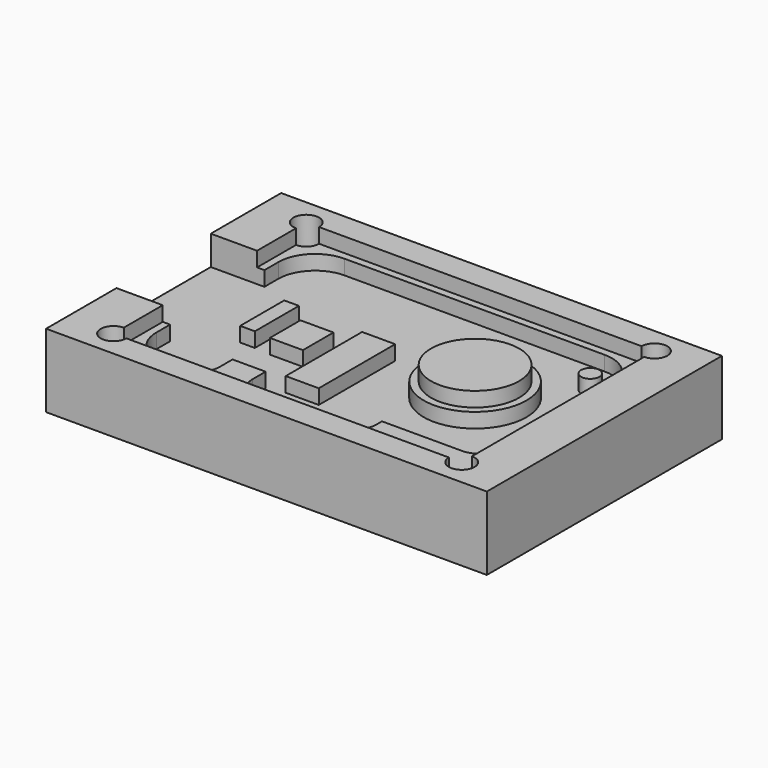
from build123d import *

# Parameters (mm, degrees)
F0_W     = 60
F0_H     = 40
F1_DEPTH = 10
F3_DEPTH = 2
F5_DEPTH = 4
F4_R     = 6
F6_DEPTH = 2
F2_W     = 6.3
F2_H     = 16.0467466712
F2_W_2   = 1.9639990747
F7_DEPTH = 4
F4_W     = 4.5
F4_H     = 5.2
F4_H_2   = 13
F4_W_2   = 2
F4_H_3   = 7.5
F4_R_2   = 7
F4_R_3   = 1.25
F8_DEPTH = 2


with BuildPart() as f1:
    # F0 (on Top) → F1 (new body)
    with BuildSketch(Plane.XY):
        with Locations((60.4293134809, -48.683847785)):
            Rectangle(F0_W, F0_H)
    extrude(amount=F1_DEPTH)

    # F2 (on face) → F3 (cut)
    with BuildSketch(Plane.XY.offset(10)):
        with BuildLine():
            Line((38.4793134809, -32.283847785), (36.7293134809, -32.283847785))
            Line((36.7293134809, -32.283847785), (36.7293134809, -34.033847785))
            ThreePointArc((36.7293134809, -34.033847785), (37.9667503479, -33.5212846521), (38.4793134809, -32.283847785))
        make_face()
        with BuildLine():
            Line((36.7293134809, -34.033847785), (36.7293134809, -32.283847785))
            Line((36.7293134809, -32.283847785), (38.4793134809, -32.283847785))
            ThreePointArc((38.4793134809, -32.283847785), (35.4918766138, -31.0464109179), (36.7293134809, -34.033847785))
        make_face()
        with BuildLine():
            ThreePointArc((38.4793134809, -65.083847785), (37.9667503479, -63.8464109179), (36.7293134809, -63.333847785))
            Line((36.7293134809, -63.333847785), (36.7293134809, -65.083847785))
            Line((36.7293134809, -65.083847785), (38.4793134809, -65.083847785))
        make_face()
        with BuildLine():
            Line((36.7293134809, -65.083847785), (36.7293134809, -63.333847785))
            ThreePointArc((36.7293134809, -63.333847785), (35.4918766138, -66.3212846521), (38.4793134809, -65.083847785))
            Line((38.4793134809, -65.083847785), (36.7293134809, -65.083847785))
        make_face()
        with BuildLine():
            ThreePointArc((85.8793134809, -65.083847785), (85.3667503479, -63.8464109179), (84.1293134809, -63.333847785))
            Line((84.1293134809, -63.333847785), (84.1293134809, -65.083847785))
            Line((84.1293134809, -65.083847785), (82.3793134809, -65.083847785))
            ThreePointArc((82.3793134809, -65.083847785), (84.1293134809, -66.833847785), (85.8793134809, -65.083847785))
        make_face()
        with BuildLine():
            Line((84.1293134809, -65.083847785), (84.1293134809, -63.333847785))
            ThreePointArc((84.1293134809, -63.333847785), (82.8918766138, -63.8464109179), (82.3793134809, -65.083847785))
            Line((82.3793134809, -65.083847785), (84.1293134809, -65.083847785))
        make_face()
        with BuildLine():
            Line((82.3793134809, -32.283847785), (38.4793134809, -32.283847785))
            ThreePointArc((38.4793134809, -32.283847785), (37.9667503479, -33.5212846521), (36.7293134809, -34.033847785))
            Line((36.7293134809, -34.033847785), (36.7293134809, -40.6604744494))
            Line((36.7293134809, -40.6604744494), (38.6933125556, -40.6604744494))
            Line((38.6933125556, -40.6604744494), (38.6933125556, -56.7072211206))
            Line((38.6933125556, -56.7072211206), (36.7293134809, -56.7072211206))
            Line((36.7293134809, -56.7072211206), (36.7293134809, -63.333847785))
            ThreePointArc((36.7293134809, -63.333847785), (37.9667503479, -63.8464109179), (38.4793134809, -65.083847785))
            Line((38.4793134809, -65.083847785), (82.3793134809, -65.083847785))
            ThreePointArc((82.3793134809, -65.083847785), (82.8918766138, -63.8464109179), (84.1293134809, -63.333847785))
            Line((84.1293134809, -63.333847785), (84.1293134809, -34.033847785))
            ThreePointArc((84.1293134809, -34.033847785), (82.8918766138, -33.5212846521), (82.3793134809, -32.283847785))
        make_face()
        with BuildLine():
            Line((84.1293134809, -32.283847785), (82.3793134809, -32.283847785))
            ThreePointArc((82.3793134809, -32.283847785), (82.8918766138, -33.5212846521), (84.1293134809, -34.033847785))
            Line((84.1293134809, -34.033847785), (84.1293134809, -32.283847785))
        make_face()
        with BuildLine():
            ThreePointArc((85.8793134809, -32.283847785), (84.1293134809, -30.533847785), (82.3793134809, -32.283847785))
            Line((82.3793134809, -32.283847785), (84.1293134809, -32.283847785))
            Line((84.1293134809, -32.283847785), (84.1293134809, -34.033847785))
            ThreePointArc((84.1293134809, -34.033847785), (85.3667503479, -33.5212846521), (85.8793134809, -32.283847785))
        make_face()
    extrude(amount=-F3_DEPTH, mode=Mode.SUBTRACT)

    # F2 (on face) → F5 (cut)
    with BuildSketch(Plane.XY.offset(10)):
        with BuildLine():
            Line((38.4793134809, -32.283847785), (36.7293134809, -32.283847785))
            Line((36.7293134809, -32.283847785), (36.7293134809, -34.033847785))
            ThreePointArc((36.7293134809, -34.033847785), (37.9667503479, -33.5212846521), (38.4793134809, -32.283847785))
        make_face()
        with BuildLine():
            Line((36.7293134809, -34.033847785), (36.7293134809, -32.283847785))
            Line((36.7293134809, -32.283847785), (38.4793134809, -32.283847785))
            ThreePointArc((38.4793134809, -32.283847785), (35.4918766138, -31.0464109179), (36.7293134809, -34.033847785))
        make_face()
        with BuildLine():
            ThreePointArc((38.4793134809, -65.083847785), (37.9667503479, -63.8464109179), (36.7293134809, -63.333847785))
            Line((36.7293134809, -63.333847785), (36.7293134809, -65.083847785))
            Line((36.7293134809, -65.083847785), (38.4793134809, -65.083847785))
        make_face()
        with BuildLine():
            Line((36.7293134809, -65.083847785), (36.7293134809, -63.333847785))
            ThreePointArc((36.7293134809, -63.333847785), (35.4918766138, -66.3212846521), (38.4793134809, -65.083847785))
            Line((38.4793134809, -65.083847785), (36.7293134809, -65.083847785))
        make_face()
        with BuildLine():
            Line((84.1293134809, -32.283847785), (82.3793134809, -32.283847785))
            ThreePointArc((82.3793134809, -32.283847785), (82.8918766138, -33.5212846521), (84.1293134809, -34.033847785))
            Line((84.1293134809, -34.033847785), (84.1293134809, -32.283847785))
        make_face()
        with BuildLine():
            ThreePointArc((85.8793134809, -32.283847785), (84.1293134809, -30.533847785), (82.3793134809, -32.283847785))
            Line((82.3793134809, -32.283847785), (84.1293134809, -32.283847785))
            Line((84.1293134809, -32.283847785), (84.1293134809, -34.033847785))
            ThreePointArc((84.1293134809, -34.033847785), (85.3667503479, -33.5212846521), (85.8793134809, -32.283847785))
        make_face()
        with BuildLine():
            Line((84.1293134809, -65.083847785), (84.1293134809, -63.333847785))
            ThreePointArc((84.1293134809, -63.333847785), (82.8918766138, -63.8464109179), (82.3793134809, -65.083847785))
            Line((82.3793134809, -65.083847785), (84.1293134809, -65.083847785))
        make_face()
        with BuildLine():
            ThreePointArc((85.8793134809, -65.083847785), (85.3667503479, -63.8464109179), (84.1293134809, -63.333847785))
            Line((84.1293134809, -63.333847785), (84.1293134809, -65.083847785))
            Line((84.1293134809, -65.083847785), (82.3793134809, -65.083847785))
            ThreePointArc((82.3793134809, -65.083847785), (84.1293134809, -66.833847785), (85.8793134809, -65.083847785))
        make_face()
    extrude(amount=-F5_DEPTH, mode=Mode.SUBTRACT)

    # F4 (on face) → F6 (join)
    with BuildSketch(Plane.XY.offset(8)):
        with Locations((71.2293134809, -46.683847785)):
            Circle(F4_R)
    extrude(amount=F6_DEPTH)

    # F2 (on face) → F7 (cut)
    with BuildSketch(Plane.XY.offset(10)):
        with Locations((33.5793134809, -48.683847785)):
            Rectangle(F2_W, F2_H)
        with Locations((37.7113130182, -48.683847785)):
            Rectangle(F2_W_2, F2_H)
    extrude(amount=-F7_DEPTH, mode=Mode.SUBTRACT)

    # F4 (on face) → F8 (cut)
    with BuildSketch(Plane.XY.offset(8)):
        with BuildLine():
            Line((78.1293134809, -33.283847785), (42.7293134809, -33.283847785))
            ThreePointArc((42.7293134809, -33.283847785), (39.1937795749, -34.7483138791), (37.7293134809, -38.283847785))
            Line((37.7293134809, -38.283847785), (37.7293134809, -40.6604744494))
            Line((37.7293134809, -40.6604744494), (38.6933125556, -40.6604744494))
            Line((38.6933125556, -40.6604744494), (38.6933125556, -56.7072211206))
            Line((38.6933125556, -56.7072211206), (37.7293134809, -56.7072211206))
            Line((37.7293134809, -56.7072211206), (37.7293134809, -59.028696239))
            ThreePointArc((37.7293134809, -59.028696239), (39.1937795749, -62.5642301449), (42.7293134809, -64.028696239))
            Line((42.7293134809, -64.028696239), (44.9293134809, -64.028696239))
            ThreePointArc((44.9293134809, -64.028696239), (47.0506338244, -63.1500165826), (47.9293134809, -61.028696239))
            Line((47.9293134809, -61.028696239), (47.9293134809, -58.828696239))
            Line((47.9293134809, -58.828696239), (52.4293134809, -58.828696239))
            Line((52.4293134809, -58.828696239), (52.4293134809, -61.028696239))
            ThreePointArc((52.4293134809, -61.028696239), (53.3079931373, -63.1500165826), (55.4293134809, -64.028696239))
            Line((55.4293134809, -64.028696239), (66.2293134809, -64.028696239))
            ThreePointArc((66.2293134809, -64.028696239), (68.3506338244, -63.1500165826), (69.2293134809, -61.028696239))
            Line((69.2293134809, -61.028696239), (69.2293134809, -60.028696239))
            Line((69.2293134809, -60.028696239), (80.1293134809, -60.028696239))
            ThreePointArc((80.1293134809, -60.028696239), (82.2506338244, -59.1500165826), (83.1293134809, -57.028696239))
            Line((83.1293134809, -57.028696239), (83.1293134809, -38.283847785))
            ThreePointArc((83.1293134809, -38.283847785), (81.6648473868, -34.7483138791), (78.1293134809, -33.283847785))
        make_face()
        with Locations((50.1793134809, -49.883847785)):
            Rectangle(F4_W, F4_H, mode=Mode.SUBTRACT)
        with Locations((56.9793134809, -51.783847785)):
            Rectangle(F4_W, F4_H_2, mode=Mode.SUBTRACT)
        with Locations((44.7293134809, -48.533847785)):
            Rectangle(F4_W_2, F4_H_3, mode=Mode.SUBTRACT)
        with Locations((71.2293134809, -46.683847785)):
            Circle(F4_R_2, mode=Mode.SUBTRACT)
        with Locations((79.6293134809, -37.583847785)):
            Circle(F4_R_3, mode=Mode.SUBTRACT)
    extrude(amount=-F8_DEPTH, mode=Mode.SUBTRACT)


solid = f1.part
